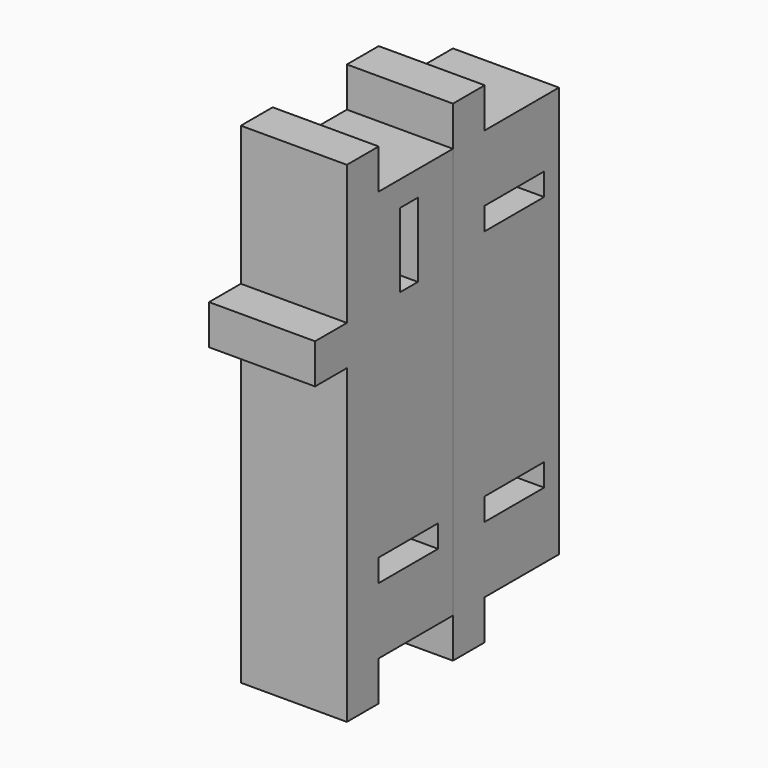
from build123d import *

# Parameters (mm, degrees)
SKETCH_W     = 5.6
SKETCH_H     = 1.7
SKETCH_W_2   = 1.7
SKETCH_H_2   = 5.6
PAD_DEPTH    = 8
SKETCH001_W  = 5.6
SKETCH001_H  = 1.7
PAD001_DEPTH = 8


with BuildPart() as bottomholder:
    # Sketch → Pad (new body)
    with BuildSketch(Plane.YZ):
        Polygon((-10, 34), (-10, 23.5), (-13, 23.5), (-13, 20.5), (-10, 20.5), (-10, -3), (-7, -3), (-7, 0), (0, 0), (0, 31), (-7, 31), (-7, 34), align=None)
        with Locations((-4.2, 5.85)):
            Rectangle(SKETCH_W, SKETCH_H, mode=Mode.SUBTRACT)
        with Locations((-4.15, 26.3)):
            Rectangle(SKETCH_W_2, SKETCH_H_2, mode=Mode.SUBTRACT)
    extrude(amount=PAD_DEPTH)


with BuildPart() as topholder:
    # Sketch001 → Pad001 (new body)
    with BuildSketch(Plane.YZ):
        Polygon((0, 34), (3, 34), (3, 31), (10, 31), (10, 0), (3, 0), (3, -3), (0, -3), align=None)
        with Locations((5.8, 25.15)):
            Rectangle(SKETCH001_W, SKETCH001_H, mode=Mode.SUBTRACT)
        with Locations((5.8, 5.85)):
            Rectangle(SKETCH001_W, SKETCH001_H, mode=Mode.SUBTRACT)
    extrude(amount=PAD001_DEPTH)


solid = Compound([bottomholder.part, topholder.part])
